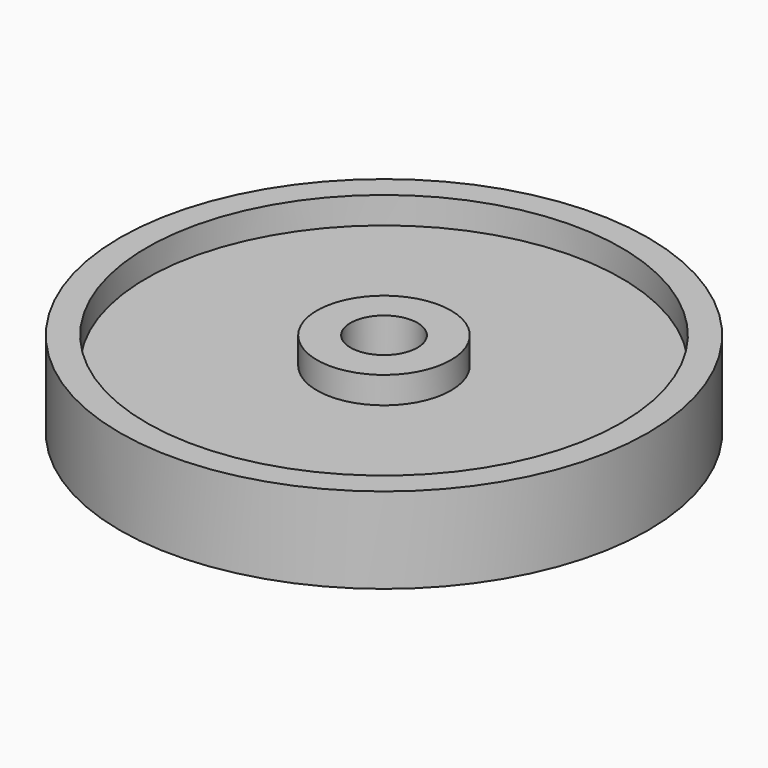
from build123d import *

# Parameters (mm, degrees)
F0_R          = 49.25
F0_R_2        = 44.25
F1_DEPTH      = 8
F0_R_3        = 12.5
F2_DEPTH      = 3
F0_R_4        = 6.25
F3_DEPTH      = 8
F3_DEPTH_BACK = 21
F5_DEPTH      = 25


with BuildPart() as f1:
    # F0 (on Top) → F1 (new body, symmetric)
    with BuildSketch(Plane.XY):
        Circle(F0_R)
        Circle(F0_R_2, mode=Mode.SUBTRACT)
    extrude(amount=F1_DEPTH, both=True)

    # F0 (on Top) → F2 (join, symmetric)
    with BuildSketch(Plane.XY):
        Circle(F0_R_2)
        Circle(F0_R_3, mode=Mode.SUBTRACT)
    extrude(amount=F2_DEPTH, both=True)

    # F0 (on Top) → F3 (join, two sides)
    with BuildSketch(Plane.XY) as f3_sk:
        Circle(F0_R_3)
        Circle(F0_R_4, mode=Mode.SUBTRACT)
    extrude(amount=F3_DEPTH)
    extrude(f3_sk.sketch, amount=-F3_DEPTH_BACK)

    # F4 (on Front) → F5 (cut)
    with BuildSketch(Plane.XZ):
        with BuildLine():
            ThreePointArc((0, -12.5), (-1.767767, -16.767767), (2.5, -15))
            ThreePointArc((2.5, -15), (1.767767, -13.232233), (0, -12.5))
        make_face()
    extrude(amount=-F5_DEPTH, mode=Mode.SUBTRACT)


solid = f1.part
